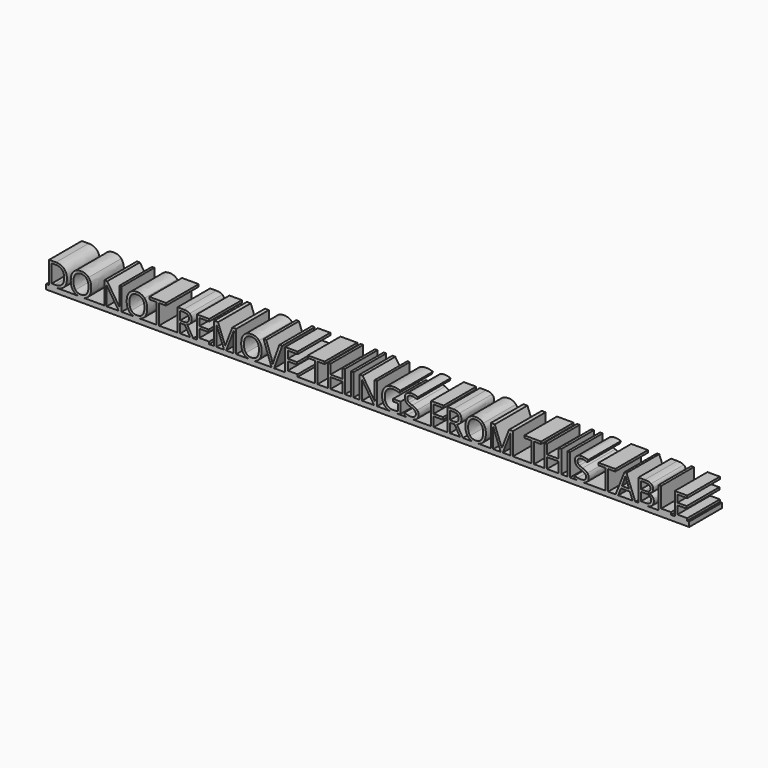
from build123d import *

# Parameters (mm, degrees)
F0_W     = 0.8051676295
F0_H     = 6.9280807897
F1_DEPTH = 12.7


with BuildPart() as f1:
    # F0 (on Front) → F1 (new body)
    with BuildSketch(Plane.XZ):
        Polygon((-65.6931871598, 7.7123762301), (-65.6931871598, 1.5), (-64.8880195302, 1.5), (-64.8880195302, 7.7123762301), (-62.6938998317, 7.7123762301), (-62.6938998317, 8.4280807897), (-67.8873068583, 8.4280807897), (-67.8873068583, 7.7123762301), align=None)
        Polygon((-53.1304492866, 8.4280807897), (-53.1304492866, 1.5), (-49.2683740466, 1.5), (-49.2683740466, 2.2202535292), (-52.325281657, 2.2202535292), (-52.325281657, 4.7691928612), (-49.4533654794, 4.7691928612), (-49.4533654794, 5.4803484511), (-52.325281657, 5.4803484511), (-52.325281657, 7.7123762301), (-49.2683740466, 7.7123762301), (-49.2683740466, 8.4280807897), align=None)
        with BuildLine():
            Line((-32.3674354425, 8.4280807897), (-29.8836980091, 1.5))
            Line((-29.8836980091, 1.5), (-29.0876283189, 1.5))
            Line((-29.0876283189, 1.5), (-26.5917602996, 8.4280807897))
            Line((-26.5917602996, 8.4280807897), (-27.4575808579, 8.4280807897))
            Line((-27.4575808579, 8.4280807897), (-29.040622299, 3.9731231709))
            add(Edge.make_bspline(
                [(-29.4864213256, 2.4431530425), (-29.3150768018, 3.2104125915), (-29.040622299, 3.9731231709)],
                knots=[0, 0, 0, 1, 1, 1], degree=2))
            add(Edge.make_bspline(
                [(-29.9216060896, 3.945829353), (-29.6471515868, 3.1725045111), (-29.4864213256, 2.4431530425)],
                knots=[0, 0, 0, 1, 1, 1], degree=2))
            Line((-29.9216060896, 3.945829353), (-31.51374547, 8.4280807897))
            Line((-31.51374547, 8.4280807897), (-32.3674354425, 8.4280807897))
        make_face()
        Polygon((-25.6395093178, 8.4280807897), (-25.6395093178, 1.5), (-21.7774340778, 1.5), (-21.7774340778, 2.2202535292), (-24.8343416883, 2.2202535292), (-24.8343416883, 4.7691928612), (-21.9624255106, 4.7691928612), (-21.9624255106, 5.4803484511), (-24.8343416883, 5.4803484511), (-24.8343416883, 7.7123762301), (-21.7774340778, 7.7123762301), (-21.7774340778, 8.4280807897), align=None)
        Polygon((-16.3944866488, 7.7123762301), (-16.3944866488, 1.5), (-15.5893190192, 1.5), (-15.5893190192, 7.7123762301), (-13.3951993207, 7.7123762301), (-13.3951993207, 8.4280807897), (-18.5886063473, 8.4280807897), (-18.5886063473, 7.7123762301), align=None)
        with Locations((-4.7893068887, 4.9640403949)):
            Rectangle(F0_W, F0_H)
        with BuildLine():
            Line((6.8619202702, 1.5), (9.1460810607, 1.5))
            add(Edge.make_bspline(
                [(10.2321490849, 1.7608075937), (9.6976927686, 1.5900171456), (9.1460810607, 1.5)],
                knots=[0, 0, 0, 0.9709878678, 0.9709878678, 0.9709878678], degree=2))
            Line((10.2321490849, 1.7608075937), (10.2321490849, 5.1300777874))
            Line((10.2321490849, 5.1300777874), (7.8772991251, 5.1300777874))
            Line((7.8772991251, 5.1300777874), (7.8772991251, 4.4098242581))
            Line((7.8772991251, 4.4098242581), (9.4254651321, 4.4098242581))
            Line((9.4254651321, 4.4098242581), (9.4254651321, 2.2778738116))
            add(Edge.make_bspline(
                [(8.0183171845, 2.1110782574), (8.7385707137, 2.1110782574), (9.4254651321, 2.2778738116)],
                knots=[0, 0, 0, 1, 1, 1], degree=2))
            add(Edge.make_bspline(
                [(6.0069144339, 2.8358807563), (6.6915343675, 2.1110782574), (8.0183171845, 2.1110782574)],
                knots=[0, 0, 0, 1, 1, 1], degree=2))
            add(Edge.make_bspline(
                [(5.3222945003, 4.9632822332), (5.3222945003, 3.5606832552), (6.0069144339, 2.8358807563)],
                knots=[0, 0, 0, 1, 1, 1], degree=2))
            add(Edge.make_bspline(
                [(6.0334500902, 7.0535337913), (5.3222945003, 6.3006793128), (5.3222945003, 4.9632822332)],
                knots=[0, 0, 0, 1, 1, 1], degree=2))
            add(Edge.make_bspline(
                [(8.0092192452, 7.8063882697), (6.7446056801, 7.8063882697), (6.0334500902, 7.0535337913)],
                knots=[0, 0, 0, 1, 1, 1], degree=2))
            add(Edge.make_bspline(
                [(9.8151601995, 7.4091115862), (8.8765561267, 7.8063882697), (8.0092192452, 7.8063882697)],
                knots=[0, 0, 0, 1, 1, 1], degree=2))
            Line((9.8151601995, 7.4091115862), (10.1275227828, 8.1202671762))
            add(Edge.make_bspline(
                [(8.0607742346, 8.526641799), (9.1707228313, 8.526641799), (10.1275227828, 8.1202671762)],
                knots=[0, 0, 0, 1, 1, 1], degree=2))
            add(Edge.make_bspline(
                [(6.1524814629, 8.0982804895), (6.9675051934, 8.526641799), (8.0607742346, 8.526641799)],
                knots=[0, 0, 0, 1, 1, 1], degree=2))
            add(Edge.make_bspline(
                [(4.9037892917, 6.8571699343), (5.3374577325, 7.66991918), (6.1524814629, 8.0982804895)],
                knots=[0, 0, 0, 1, 1, 1], degree=2))
            add(Edge.make_bspline(
                [(4.470120851, 4.9632822332), (4.470120851, 6.0444206887), (4.9037892917, 6.8571699343)],
                knots=[0, 0, 0, 1, 1, 1], degree=2))
            add(Edge.make_bspline(
                [(5.3465556718, 2.3408012252), (4.470120851, 3.2771308132), (4.470120851, 4.9632822332)],
                knots=[0, 0, 0, 1, 1, 1], degree=2))
            add(Edge.make_bspline(
                [(6.8619202702, 1.5), (5.9430463291, 1.7035469331), (5.3465556718, 2.3408012252)],
                knots=[0.319412416, 0.319412416, 0.319412416, 1, 1, 1], degree=2))
        make_face()
        with BuildLine():
            Line((12.1604551496, 1.5), (14.2327366697, 1.5))
            add(Edge.make_bspline(
                [(15.1397291847, 1.9169888854), (14.7627435489, 1.6257405542), (14.2327366697, 1.5)],
                knots=[0, 0, 0, 0.5682703015, 0.5682703015, 0.5682703015], degree=2))
            add(Edge.make_bspline(
                [(15.8031205932, 3.3438490349), (15.8031205932, 2.4295061335), (15.1397291847, 1.9169888854)],
                knots=[0, 0, 0, 1, 1, 1], degree=2))
            add(Edge.make_bspline(
                [(15.3937133239, 4.4992873281), (15.8031205932, 4.0534883016), (15.8031205932, 3.3438490349)],
                knots=[0, 0, 0, 1, 1, 1], degree=2))
            add(Edge.make_bspline(
                [(13.8940696599, 5.3332650988), (14.9843060547, 4.9450863546), (15.3937133239, 4.4992873281)],
                knots=[0, 0, 0, 1, 1, 1], degree=2))
            add(Edge.make_bspline(
                [(12.9296880923, 5.7570774386), (13.245083322, 5.5652625514), (13.8940696599, 5.3332650988)],
                knots=[0, 0, 0, 1, 1, 1], degree=2))
            add(Edge.make_bspline(
                [(12.481614581, 6.1793734552), (12.6142928627, 5.9488923259), (12.9296880923, 5.7570774386)],
                knots=[0, 0, 0, 1, 1, 1], degree=2))
            add(Edge.make_bspline(
                [(12.3489362993, 6.7692231876), (12.3489362993, 6.4098545846), (12.481614581, 6.1793734552)],
                knots=[0, 0, 0, 1, 1, 1], degree=2))
            add(Edge.make_bspline(
                [(12.7090630639, 7.531933767), (12.3489362993, 7.2574792643), (12.3489362993, 6.7692231876)],
                knots=[0, 0, 0, 1, 1, 1], degree=2))
            add(Edge.make_bspline(
                [(13.7090782271, 7.8063882697), (13.0691898285, 7.8063882697), (12.7090630639, 7.531933767)],
                knots=[0, 0, 0, 1, 1, 1], degree=2))
            add(Edge.make_bspline(
                [(15.3770337685, 7.4470196667), (14.5187948263, 7.8063882697), (13.7090782271, 7.8063882697)],
                knots=[0, 0, 0, 1, 1, 1], degree=2))
            Line((15.3770337685, 7.4470196667), (15.6287434229, 8.1475609941))
            add(Edge.make_bspline(
                [(13.728790429, 8.526641799), (14.7614065414, 8.526641799), (15.6287434229, 8.1475609941)],
                knots=[0, 0, 0, 1, 1, 1], degree=2))
            add(Edge.make_bspline(
                [(12.1358928869, 8.0527907929), (12.7371150434, 8.526641799), (13.728790429, 8.526641799)],
                knots=[0, 0, 0, 1, 1, 1], degree=2))
            add(Edge.make_bspline(
                [(11.5346707304, 6.7783211269), (11.5346707304, 7.5789397868), (12.1358928869, 8.0527907929)],
                knots=[0, 0, 0, 1, 1, 1], degree=2))
            add(Edge.make_bspline(
                [(11.9493851309, 5.5417595415), (11.5346707304, 6.0156105475), (11.5346707304, 6.7783211269)],
                knots=[0, 0, 0, 1, 1, 1], degree=2))
            add(Edge.make_bspline(
                [(13.3299974223, 4.7221868413), (12.3640995315, 5.0679085354), (11.9493851309, 5.5417595415)],
                knots=[0, 0, 0, 1, 1, 1], degree=2))
            add(Edge.make_bspline(
                [(14.3603390499, 4.2816949461), (14.0214408103, 4.4765424798), (13.3299974223, 4.7221868413)],
                knots=[0, 0, 0, 1, 1, 1], degree=2))
            add(Edge.make_bspline(
                [(14.8440461569, 3.8571244446), (14.6992372894, 4.0868474124), (14.3603390499, 4.2816949461)],
                knots=[0, 0, 0, 1, 1, 1], degree=2))
            add(Edge.make_bspline(
                [(14.9888550243, 3.2680328739), (14.9888550243, 3.6274014769), (14.8440461569, 3.8571244446)],
                knots=[0, 0, 0, 1, 1, 1], degree=2))
            add(Edge.make_bspline(
                [(14.5809640783, 2.4166173862), (14.9888550243, 2.7221565149), (14.9888550243, 3.2680328739)],
                knots=[0, 0, 0, 1, 1, 1], degree=2))
            add(Edge.make_bspline(
                [(13.3679055027, 2.1110782574), (14.1730731323, 2.1110782574), (14.5809640783, 2.4166173862)],
                knots=[0, 0, 0, 1, 1, 1], degree=2))
            add(Edge.make_bspline(
                [(12.3731974708, 2.2157045596), (12.8751004564, 2.1110782574), (13.3679055027, 2.1110782574)],
                knots=[0, 0, 0, 1, 1, 1], degree=2))
            add(Edge.make_bspline(
                [(11.4436913372, 2.4992570016), (11.8712944851, 2.3203308617), (12.3731974708, 2.2157045596)],
                knots=[0, 0, 0, 1, 1, 1], degree=2))
            Line((11.4436913372, 2.4992570016), (11.4436913372, 1.7228995133))
            add(Edge.make_bspline(
                [(12.1604551496, 1.5), (11.7440712063, 1.5788817678), (11.4436913372, 1.7228995133)],
                knots=[0.5477225575, 0.5477225575, 0.5477225575, 1, 1, 1], degree=2))
        make_face()
        Polygon((19.7425283173, 1.5), (20.5476959469, 1.5), (20.5476959469, 4.4613792476), (23.4196121245, 4.4613792476), (23.4196121245, 5.1770838072), (20.5476959469, 5.1770838072), (20.5476959469, 7.7123762301), (23.6046035573, 7.7123762301), (23.6046035573, 8.4280807897), (19.7425283173, 8.4280807897), align=None)
        Polygon((50.9166173862, 1.5), (51.7217850157, 1.5), (51.7217850157, 7.7123762301), (53.9159047142, 7.7123762301), (53.9159047142, 8.4280807897), (48.7224976876, 8.4280807897), (48.7224976876, 7.7123762301), (50.9166173862, 7.7123762301), align=None)
        with Locations((62.5217971463, 4.9640403949)):
            Rectangle(F0_W, F0_H)
        with BuildLine():
            Line((65.0907497712, 1.5), (67.1630312913, 1.5))
            add(Edge.make_bspline(
                [(68.0700238063, 1.9169888854), (67.6930381705, 1.6257405542), (67.1630312913, 1.5)],
                knots=[0, 0, 0, 0.5682703015, 0.5682703015, 0.5682703015], degree=2))
            add(Edge.make_bspline(
                [(68.7334152148, 3.3438490349), (68.7334152148, 2.4295061335), (68.0700238063, 1.9169888854)],
                knots=[0, 0, 0, 1, 1, 1], degree=2))
            add(Edge.make_bspline(
                [(68.3240079455, 4.4992873281), (68.7334152148, 4.0534883016), (68.7334152148, 3.3438490349)],
                knots=[0, 0, 0, 1, 1, 1], degree=2))
            add(Edge.make_bspline(
                [(66.8243642815, 5.3332650988), (67.9146006763, 4.9450863546), (68.3240079455, 4.4992873281)],
                knots=[0, 0, 0, 1, 1, 1], degree=2))
            add(Edge.make_bspline(
                [(65.8599827139, 5.7570774386), (66.1753779436, 5.5652625514), (66.8243642815, 5.3332650988)],
                knots=[0, 0, 0, 1, 1, 1], degree=2))
            add(Edge.make_bspline(
                [(65.4119092026, 6.1793734552), (65.5445874843, 5.9488923259), (65.8599827139, 5.7570774386)],
                knots=[0, 0, 0, 1, 1, 1], degree=2))
            add(Edge.make_bspline(
                [(65.2792309209, 6.7692231876), (65.2792309209, 6.4098545846), (65.4119092026, 6.1793734552)],
                knots=[0, 0, 0, 1, 1, 1], degree=2))
            add(Edge.make_bspline(
                [(65.6393576855, 7.531933767), (65.2792309209, 7.2574792643), (65.2792309209, 6.7692231876)],
                knots=[0, 0, 0, 1, 1, 1], degree=2))
            add(Edge.make_bspline(
                [(66.6393728487, 7.8063882697), (65.9994844501, 7.8063882697), (65.6393576855, 7.531933767)],
                knots=[0, 0, 0, 1, 1, 1], degree=2))
            add(Edge.make_bspline(
                [(68.3073283901, 7.4470196667), (67.4490894479, 7.8063882697), (66.6393728487, 7.8063882697)],
                knots=[0, 0, 0, 1, 1, 1], degree=2))
            Line((68.3073283901, 7.4470196667), (68.5590380445, 8.1475609941))
            add(Edge.make_bspline(
                [(66.6590850506, 8.526641799), (67.691701163, 8.526641799), (68.5590380445, 8.1475609941)],
                knots=[0, 0, 0, 1, 1, 1], degree=2))
            add(Edge.make_bspline(
                [(65.0661875085, 8.0527907929), (65.667409665, 8.526641799), (66.6590850506, 8.526641799)],
                knots=[0, 0, 0, 1, 1, 1], degree=2))
            add(Edge.make_bspline(
                [(64.464965352, 6.7783211269), (64.464965352, 7.5789397868), (65.0661875085, 8.0527907929)],
                knots=[0, 0, 0, 1, 1, 1], degree=2))
            add(Edge.make_bspline(
                [(64.8796797525, 5.5417595415), (64.464965352, 6.0156105475), (64.464965352, 6.7783211269)],
                knots=[0, 0, 0, 1, 1, 1], degree=2))
            add(Edge.make_bspline(
                [(66.2602920439, 4.7221868413), (65.2943941531, 5.0679085354), (64.8796797525, 5.5417595415)],
                knots=[0, 0, 0, 1, 1, 1], degree=2))
            add(Edge.make_bspline(
                [(67.2906336715, 4.2816949461), (66.9517354319, 4.4765424798), (66.2602920439, 4.7221868413)],
                knots=[0, 0, 0, 1, 1, 1], degree=2))
            add(Edge.make_bspline(
                [(67.7743407785, 3.8571244446), (67.629531911, 4.0868474124), (67.2906336715, 4.2816949461)],
                knots=[0, 0, 0, 1, 1, 1], degree=2))
            add(Edge.make_bspline(
                [(67.9191496459, 3.2680328739), (67.9191496459, 3.6274014769), (67.7743407785, 3.8571244446)],
                knots=[0, 0, 0, 1, 1, 1], degree=2))
            add(Edge.make_bspline(
                [(67.5112586999, 2.4166173862), (67.9191496459, 2.7221565149), (67.9191496459, 3.2680328739)],
                knots=[0, 0, 0, 1, 1, 1], degree=2))
            add(Edge.make_bspline(
                [(66.2982001243, 2.1110782574), (67.1033677539, 2.1110782574), (67.5112586999, 2.4166173862)],
                knots=[0, 0, 0, 1, 1, 1], degree=2))
            add(Edge.make_bspline(
                [(65.3034920924, 2.2157045596), (65.805395078, 2.1110782574), (66.2982001243, 2.1110782574)],
                knots=[0, 0, 0, 1, 1, 1], degree=2))
            add(Edge.make_bspline(
                [(64.3739859588, 2.4992570016), (64.8015891067, 2.3203308617), (65.3034920924, 2.2157045596)],
                knots=[0, 0, 0, 1, 1, 1], degree=2))
            Line((64.3739859588, 2.4992570016), (64.3739859588, 1.7228995133))
            add(Edge.make_bspline(
                [(65.0907497712, 1.5), (64.6743658279, 1.5788817678), (64.3739859588, 1.7228995133)],
                knots=[0.5477225575, 0.5477225575, 0.5477225575, 1, 1, 1], degree=2))
        make_face()
        Polygon((73.999605756, 1.5), (74.8047733855, 1.5), (74.8047733855, 7.7123762301), (76.998893084, 7.7123762301), (76.998893084, 8.4280807897), (71.8054860574, 8.4280807897), (71.8054860574, 7.7123762301), (73.999605756, 7.7123762301), align=None)
        Polygon((90.4714248889, 1.5), (94.3335001289, 1.5), (94.3335001289, 2.2293514686), (91.2765925185, 2.2293514686), (91.2765925185, 8.4280807897), (90.4714248889, 8.4280807897), align=None)
        Polygon((95.508650624, 1.5), (99.3707258639, 1.5), (99.3707258639, 2.2202535292), (96.3138182535, 2.2202535292), (96.3138182535, 4.7691928612), (99.1857344312, 4.7691928612), (99.1857344312, 5.4803484511), (96.3138182535, 5.4803484511), (96.3138182535, 7.7123762301), (99.3707258639, 7.7123762301), (99.3707258639, 8.4280807897), (95.508650624, 8.4280807897), align=None)
        with BuildLine():
            Line((-99.0477490182, 8.4280807897), (-99.0477490182, 1.5))
            Line((-99.0477490182, 1.5), (-97.1280838223, 1.5))
            add(Edge.make_bspline(
                [(-94.4487406936, 2.4075194468), (-95.3797631503, 1.5), (-97.1280838223, 1.5)],
                knots=[0, 0, 0, 1, 1, 1], degree=2))
            add(Edge.make_bspline(
                [(-93.5177182368, 5.0300004549), (-93.5177182368, 3.3150388937), (-94.4487406936, 2.4075194468)],
                knots=[0, 0, 0, 1, 1, 1], degree=2))
            add(Edge.make_bspline(
                [(-94.4131070979, 7.5326919286), (-93.5177182368, 6.6373030675), (-93.5177182368, 5.0300004549)],
                knots=[0, 0, 0, 1, 1, 1], degree=2))
            add(Edge.make_bspline(
                [(-96.9248965109, 8.4280807897), (-95.308495959, 8.4280807897), (-94.4131070979, 7.5326919286)],
                knots=[0, 0, 0, 1, 1, 1], degree=2))
            Line((-96.9248965109, 8.4280807897), (-99.0477490182, 8.4280807897))
        make_face()
        with BuildLine():
            add(Edge.make_bspline(
                [(-94.3698918862, 5.0011903137), (-94.3698918862, 6.3567832719), (-95.0499628501, 7.0436776903)],
                knots=[0, 0, 0, 1, 1, 1], degree=2))
            add(Edge.make_bspline(
                [(-95.0954525467, 2.9048734628), (-94.3698918862, 3.6137545679), (-94.3698918862, 5.0011903137)],
                knots=[0, 0, 0, 1, 1, 1], degree=2))
            add(Edge.make_bspline(
                [(-97.2615202657, 2.1959923577), (-95.8210132072, 2.1959923577), (-95.0954525467, 2.9048734628)],
                knots=[0, 0, 0, 1, 1, 1], degree=2))
            Line((-97.2615202657, 2.1959923577), (-98.2425813886, 2.1959923577))
            Line((-98.2425813886, 2.1959923577), (-98.2425813886, 7.7305721088))
            Line((-98.2425813886, 7.7305721088), (-97.0719798632, 7.7305721088))
            add(Edge.make_bspline(
                [(-95.0499628501, 7.0436776903), (-95.730033814, 7.7305721088), (-97.0719798632, 7.7305721088)],
                knots=[0, 0, 0, 1, 1, 1], degree=2))
        make_face(mode=Mode.SUBTRACT)
        with BuildLine():
            add(Edge.make_bspline(
                [(-90.0447195094, 1.5), (-90.9342032634, 1.7035469331), (-91.5002501933, 2.3408012252)],
                knots=[0.319412416, 0.319412416, 0.319412416, 1, 1, 1], degree=2))
            Line((-90.0447195094, 1.5), (-88.2565695122, 1.5))
            add(Edge.make_bspline(
                [(-86.8004063746, 2.3574807806), (-87.3755239349, 1.7061990029), (-88.2565695122, 1.5)],
                knots=[0, 0, 0, 0.6833950988, 0.6833950988, 0.6833950988], degree=2))
            add(Edge.make_bspline(
                [(-85.9588469878, 4.9738964958), (-85.9588469878, 3.310489924), (-86.8004063746, 2.3574807806)],
                knots=[0, 0, 0, 1, 1, 1], degree=2))
            add(Edge.make_bspline(
                [(-86.7973737282, 7.5895540493), (-85.9588469878, 6.6418520372), (-85.9588469878, 4.9738964958)],
                knots=[0, 0, 0, 1, 1, 1], degree=2))
            add(Edge.make_bspline(
                [(-89.1294788397, 8.5372560615), (-87.6359004685, 8.5372560615), (-86.7973737282, 7.5895540493)],
                knots=[0, 0, 0, 1, 1, 1], degree=2))
            add(Edge.make_bspline(
                [(-91.4979757085, 7.6062336048), (-90.6639979378, 8.5372560615), (-89.1294788397, 8.5372560615)],
                knots=[0, 0, 0, 1, 1, 1], degree=2))
            add(Edge.make_bspline(
                [(-92.3319534792, 4.9829944351), (-92.3319534792, 6.675211148), (-91.4979757085, 7.6062336048)],
                knots=[0, 0, 0, 1, 1, 1], degree=2))
            add(Edge.make_bspline(
                [(-91.5002501933, 2.3408012252), (-92.3319534792, 3.2771308132), (-92.3319534792, 4.9829944351)],
                knots=[0, 0, 0, 1, 1, 1], degree=2))
        make_face()
        with BuildLine():
            add(Edge.make_bspline(
                [(-91.4797798299, 4.9738964958), (-91.4797798299, 3.5667485481), (-90.8800739966, 2.8389134028)],
                knots=[0, 0, 0, 1, 1, 1], degree=2))
            add(Edge.make_bspline(
                [(-90.8800739966, 7.0891673869), (-91.4797798299, 6.3613322416), (-91.4797798299, 4.9738964958)],
                knots=[0, 0, 0, 1, 1, 1], degree=2))
            add(Edge.make_bspline(
                [(-89.1294788397, 7.8170025323), (-90.2803681633, 7.8170025323), (-90.8800739966, 7.0891673869)],
                knots=[0, 0, 0, 1, 1, 1], degree=2))
            add(Edge.make_bspline(
                [(-87.3978377231, 7.0944745182), (-87.9831384858, 7.8170025323), (-89.1294788397, 7.8170025323)],
                knots=[0, 0, 0, 1, 1, 1], degree=2))
            add(Edge.make_bspline(
                [(-86.8125369604, 4.9738964958), (-86.8125369604, 6.3719465041), (-87.3978377231, 7.0944745182)],
                knots=[0, 0, 0, 1, 1, 1], degree=2))
            add(Edge.make_bspline(
                [(-87.4001122079, 2.8358807563), (-86.8125369604, 3.5606832552), (-86.8125369604, 4.9738964958)],
                knots=[0, 0, 0, 1, 1, 1], degree=2))
            add(Edge.make_bspline(
                [(-89.138576779, 2.1110782574), (-87.9876874555, 2.1110782574), (-87.4001122079, 2.8358807563)],
                knots=[0, 0, 0, 1, 1, 1], degree=2))
            add(Edge.make_bspline(
                [(-90.8800739966, 2.8389134028), (-90.2803681633, 2.1110782574), (-89.138576779, 2.1110782574)],
                knots=[0, 0, 0, 1, 1, 1], degree=2))
        make_face(mode=Mode.SUBTRACT)
        with BuildLine():
            Line((-88.2565695122, 1.5), (-90.0447195094, 1.5))
            add(Edge.make_bspline(
                [(-89.138576779, 1.4044716372), (-89.6272682342, 1.4044716372), (-90.0447195094, 1.5)],
                knots=[0, 0, 0, 0.319412416, 0.319412416, 0.319412416], degree=2))
            add(Edge.make_bspline(
                [(-88.2565695122, 1.5), (-88.6647423956, 1.4044716372), (-89.138576779, 1.4044716372)],
                knots=[0.6833950988, 0.6833950988, 0.6833950988, 1, 1, 1], degree=2))
        make_face()
        with BuildLine():
            Line((-81.8935844365, 8.4280807897), (-81.8935844365, 1.5))
            Line((-81.8935844365, 1.5), (-81.1490697357, 1.5))
            Line((-81.1490697357, 1.5), (-81.1490697357, 5.4378914009))
            add(Edge.make_bspline(
                [(-81.2248858967, 7.3135832234), (-81.1490697357, 6.2900650503), (-81.1490697357, 5.4378914009)],
                knots=[0, 0, 0, 1, 1, 1], degree=2))
            Line((-81.2248858967, 7.3135832234), (-81.1869778162, 7.3135832234))
            Line((-81.1869778162, 7.3135832234), (-77.4007187372, 1.5))
            Line((-77.4007187372, 1.5), (-76.4818268662, 1.5))
            Line((-76.4818268662, 1.5), (-76.4818268662, 8.4280807897))
            Line((-76.4818268662, 8.4280807897), (-77.2354395063, 8.4280807897))
            Line((-77.2354395063, 8.4280807897), (-77.2354395063, 4.4522813083))
            add(Edge.make_bspline(
                [(-77.2111783348, 3.4590895995), (-77.2445374456, 4.1535656341), (-77.2354395063, 4.4522813083)],
                knots=[0, 0, 0, 1, 1, 1], degree=2))
            add(Edge.make_bspline(
                [(-77.1687212846, 2.6372424146), (-77.1778192239, 2.764613565), (-77.2111783348, 3.4590895995)],
                knots=[0, 0, 0, 1, 1, 1], degree=2))
            Line((-77.1687212846, 2.6372424146), (-77.2066293651, 2.6372424146))
            Line((-77.2066293651, 2.6372424146), (-80.9837905048, 8.4280807897))
            Line((-80.9837905048, 8.4280807897), (-81.8935844365, 8.4280807897))
        make_face()
        with BuildLine():
            add(Edge.make_bspline(
                [(-72.6494595358, 1.5), (-73.5389432898, 1.7035469331), (-74.1049902197, 2.3408012252)],
                knots=[0.319412416, 0.319412416, 0.319412416, 1, 1, 1], degree=2))
            Line((-72.6494595358, 1.5), (-70.8613095386, 1.5))
            add(Edge.make_bspline(
                [(-69.405146401, 2.3574807806), (-69.9802639613, 1.7061990029), (-70.8613095386, 1.5)],
                knots=[0, 0, 0, 0.6833950988, 0.6833950988, 0.6833950988], degree=2))
            add(Edge.make_bspline(
                [(-68.5635870142, 4.9738964958), (-68.5635870142, 3.310489924), (-69.405146401, 2.3574807806)],
                knots=[0, 0, 0, 1, 1, 1], degree=2))
            add(Edge.make_bspline(
                [(-69.4021137546, 7.5895540493), (-68.5635870142, 6.6418520372), (-68.5635870142, 4.9738964958)],
                knots=[0, 0, 0, 1, 1, 1], degree=2))
            add(Edge.make_bspline(
                [(-71.7342188661, 8.5372560615), (-70.2406404949, 8.5372560615), (-69.4021137546, 7.5895540493)],
                knots=[0, 0, 0, 1, 1, 1], degree=2))
            add(Edge.make_bspline(
                [(-74.1027157349, 7.6062336048), (-73.2687379642, 8.5372560615), (-71.7342188661, 8.5372560615)],
                knots=[0, 0, 0, 1, 1, 1], degree=2))
            add(Edge.make_bspline(
                [(-74.9366935056, 4.9829944351), (-74.9366935056, 6.675211148), (-74.1027157349, 7.6062336048)],
                knots=[0, 0, 0, 1, 1, 1], degree=2))
            add(Edge.make_bspline(
                [(-74.1049902197, 2.3408012252), (-74.9366935056, 3.2771308132), (-74.9366935056, 4.9829944351)],
                knots=[0, 0, 0, 1, 1, 1], degree=2))
        make_face()
        with BuildLine():
            add(Edge.make_bspline(
                [(-74.0845198563, 4.9738964958), (-74.0845198563, 3.5667485481), (-73.484814023, 2.8389134028)],
                knots=[0, 0, 0, 1, 1, 1], degree=2))
            add(Edge.make_bspline(
                [(-73.484814023, 7.0891673869), (-74.0845198563, 6.3613322416), (-74.0845198563, 4.9738964958)],
                knots=[0, 0, 0, 1, 1, 1], degree=2))
            add(Edge.make_bspline(
                [(-71.7342188661, 7.8170025323), (-72.8851081897, 7.8170025323), (-73.484814023, 7.0891673869)],
                knots=[0, 0, 0, 1, 1, 1], degree=2))
            add(Edge.make_bspline(
                [(-70.0025777495, 7.0944745182), (-70.5878785122, 7.8170025323), (-71.7342188661, 7.8170025323)],
                knots=[0, 0, 0, 1, 1, 1], degree=2))
            add(Edge.make_bspline(
                [(-69.4172769868, 4.9738964958), (-69.4172769868, 6.3719465041), (-70.0025777495, 7.0944745182)],
                knots=[0, 0, 0, 1, 1, 1], degree=2))
            add(Edge.make_bspline(
                [(-70.0048522343, 2.8358807563), (-69.4172769868, 3.5606832552), (-69.4172769868, 4.9738964958)],
                knots=[0, 0, 0, 1, 1, 1], degree=2))
            add(Edge.make_bspline(
                [(-71.7433168054, 2.1110782574), (-70.5924274818, 2.1110782574), (-70.0048522343, 2.8358807563)],
                knots=[0, 0, 0, 1, 1, 1], degree=2))
            add(Edge.make_bspline(
                [(-73.484814023, 2.8389134028), (-72.8851081897, 2.1110782574), (-71.7433168054, 2.1110782574)],
                knots=[0, 0, 0, 1, 1, 1], degree=2))
        make_face(mode=Mode.SUBTRACT)
        with BuildLine():
            Line((-70.8613095386, 1.5), (-72.6494595358, 1.5))
            add(Edge.make_bspline(
                [(-71.7433168054, 1.4044716372), (-72.2320082605, 1.4044716372), (-72.6494595358, 1.5)],
                knots=[0, 0, 0, 0.319412416, 0.319412416, 0.319412416], degree=2))
            add(Edge.make_bspline(
                [(-70.8613095386, 1.5), (-71.269482422, 1.4044716372), (-71.7433168054, 1.4044716372)],
                knots=[0.6833950988, 0.6833950988, 0.6833950988, 1, 1, 1], degree=2))
        make_face()
        with BuildLine():
            add(Edge.make_bspline(
                [(-37.0446740197, 1.5), (-37.9341577737, 1.7035469331), (-38.5002047036, 2.3408012252)],
                knots=[0.319412416, 0.319412416, 0.319412416, 1, 1, 1], degree=2))
            Line((-37.0446740197, 1.5), (-35.2565240225, 1.5))
            add(Edge.make_bspline(
                [(-33.8003608849, 2.3574807806), (-34.3754784452, 1.7061990029), (-35.2565240225, 1.5)],
                knots=[0, 0, 0, 0.6833950988, 0.6833950988, 0.6833950988], degree=2))
            add(Edge.make_bspline(
                [(-32.9588014981, 4.9738964958), (-32.9588014981, 3.310489924), (-33.8003608849, 2.3574807806)],
                knots=[0, 0, 0, 1, 1, 1], degree=2))
            add(Edge.make_bspline(
                [(-33.7973282385, 7.5895540493), (-32.9588014981, 6.6418520372), (-32.9588014981, 4.9738964958)],
                knots=[0, 0, 0, 1, 1, 1], degree=2))
            add(Edge.make_bspline(
                [(-36.12943335, 8.5372560615), (-34.6358549788, 8.5372560615), (-33.7973282385, 7.5895540493)],
                knots=[0, 0, 0, 1, 1, 1], degree=2))
            add(Edge.make_bspline(
                [(-38.4979302188, 7.6062336048), (-37.6639524481, 8.5372560615), (-36.12943335, 8.5372560615)],
                knots=[0, 0, 0, 1, 1, 1], degree=2))
            add(Edge.make_bspline(
                [(-39.3319079895, 4.9829944351), (-39.3319079895, 6.675211148), (-38.4979302188, 7.6062336048)],
                knots=[0, 0, 0, 1, 1, 1], degree=2))
            add(Edge.make_bspline(
                [(-38.5002047036, 2.3408012252), (-39.3319079895, 3.2771308132), (-39.3319079895, 4.9829944351)],
                knots=[0, 0, 0, 1, 1, 1], degree=2))
        make_face()
        with BuildLine():
            add(Edge.make_bspline(
                [(-38.4797343402, 4.9738964958), (-38.4797343402, 3.5667485481), (-37.8800285069, 2.8389134028)],
                knots=[0, 0, 0, 1, 1, 1], degree=2))
            add(Edge.make_bspline(
                [(-37.8800285069, 7.0891673869), (-38.4797343402, 6.3613322416), (-38.4797343402, 4.9738964958)],
                knots=[0, 0, 0, 1, 1, 1], degree=2))
            add(Edge.make_bspline(
                [(-36.12943335, 7.8170025323), (-37.2803226736, 7.8170025323), (-37.8800285069, 7.0891673869)],
                knots=[0, 0, 0, 1, 1, 1], degree=2))
            add(Edge.make_bspline(
                [(-34.3977922334, 7.0944745182), (-34.9830929961, 7.8170025323), (-36.12943335, 7.8170025323)],
                knots=[0, 0, 0, 1, 1, 1], degree=2))
            add(Edge.make_bspline(
                [(-33.8124914707, 4.9738964958), (-33.8124914707, 6.3719465041), (-34.3977922334, 7.0944745182)],
                knots=[0, 0, 0, 1, 1, 1], degree=2))
            add(Edge.make_bspline(
                [(-34.4000667182, 2.8358807563), (-33.8124914707, 3.5606832552), (-33.8124914707, 4.9738964958)],
                knots=[0, 0, 0, 1, 1, 1], degree=2))
            add(Edge.make_bspline(
                [(-36.1385312893, 2.1110782574), (-34.9876419658, 2.1110782574), (-34.4000667182, 2.8358807563)],
                knots=[0, 0, 0, 1, 1, 1], degree=2))
            add(Edge.make_bspline(
                [(-37.8800285069, 2.8389134028), (-37.2803226736, 2.1110782574), (-36.1385312893, 2.1110782574)],
                knots=[0, 0, 0, 1, 1, 1], degree=2))
        make_face(mode=Mode.SUBTRACT)
        with BuildLine():
            Line((-35.2565240225, 1.5), (-37.0446740197, 1.5))
            add(Edge.make_bspline(
                [(-36.1385312893, 1.4044716372), (-36.6272227445, 1.4044716372), (-37.0446740197, 1.5)],
                knots=[0, 0, 0, 0.319412416, 0.319412416, 0.319412416], degree=2))
            add(Edge.make_bspline(
                [(-35.2565240225, 1.5), (-35.6646969059, 1.4044716372), (-36.1385312893, 1.4044716372)],
                knots=[0.6833950988, 0.6833950988, 0.6833950988, 1, 1, 1], degree=2))
        make_face()
        Polygon((-12.3519689457, 8.4280807897), (-12.3519689457, 1.5), (-11.5468013162, 1.5), (-11.5468013162, 4.7600949218), (-7.8970113269, 4.7600949218), (-7.8970113269, 1.5), (-7.0918436974, 1.5), (-7.0918436974, 8.4280807897), (-7.8970113269, 8.4280807897), (-7.8970113269, 5.4803484511), (-11.5468013162, 5.4803484511), (-11.5468013162, 8.4280807897), align=None)
        with BuildLine():
            Line((2.0060956193, 1.5), (2.9249874903, 1.5))
            Line((2.9249874903, 1.5), (2.9249874903, 8.4280807897))
            Line((2.9249874903, 8.4280807897), (2.1713748503, 8.4280807897))
            Line((2.1713748503, 8.4280807897), (2.1713748503, 4.4522813083))
            add(Edge.make_bspline(
                [(2.1956360218, 3.4590895995), (2.1622769109, 4.1535656341), (2.1713748503, 4.4522813083)],
                knots=[0, 0, 0, 1, 1, 1], degree=2))
            add(Edge.make_bspline(
                [(2.2380930719, 2.6372424146), (2.2289951326, 2.764613565), (2.1956360218, 3.4590895995)],
                knots=[0, 0, 0, 1, 1, 1], degree=2))
            Line((2.2380930719, 2.6372424146), (2.2001849914, 2.6372424146))
            Line((2.2001849914, 2.6372424146), (-1.5769761482, 8.4280807897))
            Line((-1.5769761482, 8.4280807897), (-2.4867700799, 8.4280807897))
            Line((-2.4867700799, 8.4280807897), (-2.4867700799, 1.5))
            Line((-2.4867700799, 1.5), (-1.7422553792, 1.5))
            Line((-1.7422553792, 1.5), (-1.7422553792, 5.4378914009))
            add(Edge.make_bspline(
                [(-1.8180715401, 7.3135832234), (-1.7422553792, 6.2900650503), (-1.7422553792, 5.4378914009)],
                knots=[0, 0, 0, 1, 1, 1], degree=2))
            Line((-1.8180715401, 7.3135832234), (-1.7801634596, 7.3135832234))
            Line((-1.7801634596, 7.3135832234), (2.0060956193, 1.5))
        make_face()
        with BuildLine():
            add(Edge.make_bspline(
                [(9.1460810607, 1.5), (9.1295994626, 1.497310379), (9.1131025489, 1.4946928687)],
                knots=[0.9709878678, 0.9709878678, 0.9709878678, 1, 1, 1], degree=2))
            Line((9.1460810607, 1.5), (6.8619202702, 1.5))
            add(Edge.make_bspline(
                [(7.7954176712, 1.4044716372), (7.2931649071, 1.4044716372), (6.8619202702, 1.5)],
                knots=[0, 0, 0, 0.319412416, 0.319412416, 0.319412416], degree=2))
            add(Edge.make_bspline(
                [(9.1131025489, 1.4946928687), (8.5444813416, 1.4044716372), (7.7954176712, 1.4044716372)],
                knots=[0, 0, 0, 1, 1, 1], degree=2))
        make_face()
        with BuildLine():
            add(Edge.make_bspline(
                [(14.2327366697, 1.5), (13.8300766863, 1.4044716372), (13.3390953616, 1.4044716372)],
                knots=[0.5682703015, 0.5682703015, 0.5682703015, 1, 1, 1], degree=2))
            Line((14.2327366697, 1.5), (12.1604551496, 1.5))
            add(Edge.make_bspline(
                [(13.3390953616, 1.4044716372), (12.664709523, 1.4044716372), (12.1604551496, 1.5)],
                knots=[0, 0, 0, 0.5477225575, 0.5477225575, 0.5477225575], degree=2))
        make_face()
        with BuildLine():
            Line((32.6773839342, 1.5), (34.4655339314, 1.5))
            add(Edge.make_bspline(
                [(35.9216970689, 2.3574807806), (35.3465795087, 1.7061990029), (34.4655339314, 1.5)],
                knots=[0, 0, 0, 0.6833950988, 0.6833950988, 0.6833950988], degree=2))
            add(Edge.make_bspline(
                [(36.7632564557, 4.9738964958), (36.7632564557, 3.310489924), (35.9216970689, 2.3574807806)],
                knots=[0, 0, 0, 1, 1, 1], degree=2))
            add(Edge.make_bspline(
                [(35.9247297154, 7.5895540493), (36.7632564557, 6.6418520372), (36.7632564557, 4.9738964958)],
                knots=[0, 0, 0, 1, 1, 1], degree=2))
            add(Edge.make_bspline(
                [(33.5926246039, 8.5372560615), (35.086202975, 8.5372560615), (35.9247297154, 7.5895540493)],
                knots=[0, 0, 0, 1, 1, 1], degree=2))
            add(Edge.make_bspline(
                [(31.2241277351, 7.6062336048), (32.0581055058, 8.5372560615), (33.5926246039, 8.5372560615)],
                knots=[0, 0, 0, 1, 1, 1], degree=2))
            add(Edge.make_bspline(
                [(30.3901499644, 4.9829944351), (30.3901499644, 6.675211148), (31.2241277351, 7.6062336048)],
                knots=[0, 0, 0, 1, 1, 1], degree=2))
            add(Edge.make_bspline(
                [(31.2218532502, 2.3408012252), (30.3901499644, 3.2771308132), (30.3901499644, 4.9829944351)],
                knots=[0, 0, 0, 1, 1, 1], degree=2))
            add(Edge.make_bspline(
                [(32.6773839342, 1.5), (31.7879001802, 1.7035469331), (31.2218532502, 2.3408012252)],
                knots=[0.319412416, 0.319412416, 0.319412416, 1, 1, 1], degree=2))
        make_face()
        with BuildLine():
            add(Edge.make_bspline(
                [(31.2423236137, 4.9738964958), (31.2423236137, 3.5667485481), (31.842029447, 2.8389134028)],
                knots=[0, 0, 0, 1, 1, 1], degree=2))
            add(Edge.make_bspline(
                [(31.842029447, 7.0891673869), (31.2423236137, 6.3613322416), (31.2423236137, 4.9738964958)],
                knots=[0, 0, 0, 1, 1, 1], degree=2))
            add(Edge.make_bspline(
                [(33.5926246039, 7.8170025323), (32.4417352803, 7.8170025323), (31.842029447, 7.0891673869)],
                knots=[0, 0, 0, 1, 1, 1], degree=2))
            add(Edge.make_bspline(
                [(35.3242657205, 7.0944745182), (34.7389649578, 7.8170025323), (33.5926246039, 7.8170025323)],
                knots=[0, 0, 0, 1, 1, 1], degree=2))
            add(Edge.make_bspline(
                [(35.9095664832, 4.9738964958), (35.9095664832, 6.3719465041), (35.3242657205, 7.0944745182)],
                knots=[0, 0, 0, 1, 1, 1], degree=2))
            add(Edge.make_bspline(
                [(35.3219912357, 2.8358807563), (35.9095664832, 3.5606832552), (35.9095664832, 4.9738964958)],
                knots=[0, 0, 0, 1, 1, 1], degree=2))
            add(Edge.make_bspline(
                [(33.5835266645, 2.1110782574), (34.7344159881, 2.1110782574), (35.3219912357, 2.8358807563)],
                knots=[0, 0, 0, 1, 1, 1], degree=2))
            add(Edge.make_bspline(
                [(31.842029447, 2.8389134028), (32.4417352803, 2.1110782574), (33.5835266645, 2.1110782574)],
                knots=[0, 0, 0, 1, 1, 1], degree=2))
        make_face(mode=Mode.SUBTRACT)
        with BuildLine():
            add(Edge.make_bspline(
                [(34.4655339314, 1.5), (34.057361048, 1.4044716372), (33.5835266645, 1.4044716372)],
                knots=[0.6833950988, 0.6833950988, 0.6833950988, 1, 1, 1], degree=2))
            Line((34.4655339314, 1.5), (32.6773839342, 1.5))
            add(Edge.make_bspline(
                [(33.5835266645, 1.4044716372), (33.0948352094, 1.4044716372), (32.6773839342, 1.5)],
                knots=[0, 0, 0, 0.319412416, 0.319412416, 0.319412416], degree=2))
        make_face()
        Polygon((59.414092708, 1.5), (60.2192603375, 1.5), (60.2192603375, 8.4280807897), (59.414092708, 8.4280807897), (59.414092708, 5.4803484511), (55.7643027188, 5.4803484511), (55.7643027188, 8.4280807897), (54.9591350892, 8.4280807897), (54.9591350892, 1.5), (55.7643027188, 1.5), (55.7643027188, 4.7600949218), (59.414092708, 4.7600949218), align=None)
        with BuildLine():
            add(Edge.make_bspline(
                [(67.1630312913, 1.5), (66.7603713079, 1.4044716372), (66.2693899832, 1.4044716372)],
                knots=[0.5682703015, 0.5682703015, 0.5682703015, 1, 1, 1], degree=2))
            Line((67.1630312913, 1.5), (65.0907497712, 1.5))
            add(Edge.make_bspline(
                [(66.2693899832, 1.4044716372), (65.5950041446, 1.4044716372), (65.0907497712, 1.5)],
                knots=[0, 0, 0, 0.5477225575, 0.5477225575, 0.5477225575], degree=2))
        make_face()
        with BuildLine():
            Line((-59.1290239427, 8.4280807897), (-59.1290239427, 1.5))
            Line((-59.1290239427, 1.5), (-58.3238563132, 1.5))
            Line((-58.3238563132, 1.5), (-58.3238563132, 4.381014117))
            Line((-58.3238563132, 4.381014117), (-56.8772839618, 4.381014117))
            Line((-56.8772839618, 4.381014117), (-55.2002304811, 1.5))
            Line((-55.2002304811, 1.5), (-54.2479794993, 1.5))
            Line((-54.2479794993, 1.5), (-56.1297366147, 4.6130115695))
            add(Edge.make_bspline(
                [(-54.736235576, 6.4705075134), (-54.736235576, 5.0967186766), (-56.1297366147, 4.6130115695)],
                knots=[0, 0, 0, 1, 1, 1], degree=2))
            add(Edge.make_bspline(
                [(-55.3450393486, 7.939824713), (-54.736235576, 7.4515686364), (-54.736235576, 6.4705075134)],
                knots=[0, 0, 0, 1, 1, 1], degree=2))
            add(Edge.make_bspline(
                [(-57.2290709488, 8.4280807897), (-55.9538431212, 8.4280807897), (-55.3450393486, 7.939824713)],
                knots=[0, 0, 0, 1, 1, 1], degree=2))
            Line((-57.2290709488, 8.4280807897), (-59.1290239427, 8.4280807897))
        make_face()
        with BuildLine():
            Line((-57.2184566862, 5.072457505), (-58.3238563132, 5.072457505))
            Line((-58.3238563132, 5.072457505), (-58.3238563132, 7.7214741694))
            Line((-58.3238563132, 7.7214741694), (-57.2760769686, 7.7214741694))
            add(Edge.make_bspline(
                [(-55.9750716463, 7.4182095255), (-56.3799299459, 7.7214741694), (-57.2760769686, 7.7214741694)],
                knots=[0, 0, 0, 1, 1, 1], degree=2))
            add(Edge.make_bspline(
                [(-55.5702133467, 6.4280504632), (-55.5702133467, 7.1149448817), (-55.9750716463, 7.4182095255)],
                knots=[0, 0, 0, 1, 1, 1], degree=2))
            add(Edge.make_bspline(
                [(-55.9682481918, 5.4113557446), (-55.5702133467, 5.7502539841), (-55.5702133467, 6.4280504632)],
                knots=[0, 0, 0, 1, 1, 1], degree=2))
            add(Edge.make_bspline(
                [(-57.2184566862, 5.072457505), (-56.3662830369, 5.072457505), (-55.9682481918, 5.4113557446)],
                knots=[0, 0, 0, 1, 1, 1], degree=2))
        make_face(mode=Mode.SUBTRACT)
        with BuildLine():
            Line((-47.7338549485, 8.4280807897), (-47.7338549485, 1.5))
            Line((-47.7338549485, 1.5), (-46.9893402478, 1.5))
            Line((-46.9893402478, 1.5), (-46.9893402478, 5.9064352757))
            add(Edge.make_bspline(
                [(-47.0560584694, 7.6411090388), (-46.9893402478, 6.9117575702), (-46.9893402478, 5.9064352757)],
                knots=[0, 0, 0, 1, 1, 1], degree=2))
            Line((-47.0560584694, 7.6411090388), (-47.0181503889, 7.6411090388))
            Line((-47.0181503889, 7.6411090388), (-44.6678493988, 1.5))
            Line((-44.6678493988, 1.5), (-44.0188630609, 1.5))
            Line((-44.0188630609, 1.5), (-41.6488498688, 7.6320110995))
            Line((-41.6488498688, 7.6320110995), (-41.6109417884, 7.6320110995))
            add(Edge.make_bspline(
                [(-41.67766001, 5.9640555581), (-41.67766001, 6.7313151071), (-41.6109417884, 7.6320110995)],
                knots=[0, 0, 0, 1, 1, 1], degree=2))
            Line((-41.67766001, 5.9640555581), (-41.67766001, 1.5))
            Line((-41.67766001, 1.5), (-40.8724923805, 1.5))
            Line((-40.8724923805, 1.5), (-40.8724923805, 8.4280807897))
            Line((-40.8724923805, 8.4280807897), (-42.0764530167, 8.4280807897))
            Line((-42.0764530167, 8.4280807897), (-44.2887685939, 2.7130585756))
            Line((-44.2887685939, 2.7130585756), (-44.3266766744, 2.7130585756))
            Line((-44.3266766744, 2.7130585756), (-46.520796373, 8.4280807897))
            Line((-46.520796373, 8.4280807897), (-47.7338549485, 8.4280807897))
        make_face()
        with BuildLine():
            Line((28.6797373728, 1.5), (29.6319883546, 1.5))
            Line((29.6319883546, 1.5), (27.7502312393, 4.6130115695))
            add(Edge.make_bspline(
                [(29.143732278, 6.4705075134), (29.143732278, 5.0967186766), (27.7502312393, 4.6130115695)],
                knots=[0, 0, 0, 1, 1, 1], degree=2))
            add(Edge.make_bspline(
                [(28.5349285054, 7.939824713), (29.143732278, 7.4515686364), (29.143732278, 6.4705075134)],
                knots=[0, 0, 0, 1, 1, 1], degree=2))
            add(Edge.make_bspline(
                [(26.6508969052, 8.4280807897), (27.9261247327, 8.4280807897), (28.5349285054, 7.939824713)],
                knots=[0, 0, 0, 1, 1, 1], degree=2))
            Line((26.6508969052, 8.4280807897), (24.7509439112, 8.4280807897))
            Line((24.7509439112, 8.4280807897), (24.7509439112, 1.5))
            Line((24.7509439112, 1.5), (25.5561115407, 1.5))
            Line((25.5561115407, 1.5), (25.5561115407, 4.381014117))
            Line((25.5561115407, 4.381014117), (27.0026838921, 4.381014117))
            Line((27.0026838921, 4.381014117), (28.6797373728, 1.5))
        make_face()
        with BuildLine():
            Line((26.6615111677, 5.072457505), (25.5561115407, 5.072457505))
            Line((25.5561115407, 5.072457505), (25.5561115407, 7.7214741694))
            Line((25.5561115407, 7.7214741694), (26.6038908854, 7.7214741694))
            add(Edge.make_bspline(
                [(27.9048962077, 7.4182095255), (27.5000379081, 7.7214741694), (26.6038908854, 7.7214741694)],
                knots=[0, 0, 0, 1, 1, 1], degree=2))
            add(Edge.make_bspline(
                [(28.3097545073, 6.4280504632), (28.3097545073, 7.1149448817), (27.9048962077, 7.4182095255)],
                knots=[0, 0, 0, 1, 1, 1], degree=2))
            add(Edge.make_bspline(
                [(27.9117196622, 5.4113557446), (28.3097545073, 5.7502539841), (28.3097545073, 6.4280504632)],
                knots=[0, 0, 0, 1, 1, 1], degree=2))
            add(Edge.make_bspline(
                [(26.6615111677, 5.072457505), (27.5136848171, 5.072457505), (27.9117196622, 5.4113557446)],
                knots=[0, 0, 0, 1, 1, 1], degree=2))
        make_face(mode=Mode.SUBTRACT)
        with BuildLine():
            Line((44.3630684317, 1.5), (45.1682360612, 1.5))
            Line((45.1682360612, 1.5), (45.1682360612, 8.4280807897))
            Line((45.1682360612, 8.4280807897), (43.9642754249, 8.4280807897))
            Line((43.9642754249, 8.4280807897), (41.7519598478, 2.7130585756))
            Line((41.7519598478, 2.7130585756), (41.7140517673, 2.7130585756))
            Line((41.7140517673, 2.7130585756), (39.5199320687, 8.4280807897))
            Line((39.5199320687, 8.4280807897), (38.3068734932, 8.4280807897))
            Line((38.3068734932, 8.4280807897), (38.3068734932, 1.5))
            Line((38.3068734932, 1.5), (39.0513881939, 1.5))
            Line((39.0513881939, 1.5), (39.0513881939, 5.9064352757))
            add(Edge.make_bspline(
                [(38.9846699723, 7.6411090388), (39.0513881939, 6.9117575702), (39.0513881939, 5.9064352757)],
                knots=[0, 0, 0, 1, 1, 1], degree=2))
            Line((38.9846699723, 7.6411090388), (39.0225780527, 7.6411090388))
            Line((39.0225780527, 7.6411090388), (41.3728790429, 1.5))
            Line((41.3728790429, 1.5), (42.0218653808, 1.5))
            Line((42.0218653808, 1.5), (44.3918785728, 7.6320110995))
            Line((44.3918785728, 7.6320110995), (44.4297866533, 7.6320110995))
            add(Edge.make_bspline(
                [(44.3630684317, 5.9640555581), (44.3630684317, 6.7313151071), (44.4297866533, 7.6320110995)],
                knots=[0, 0, 0, 1, 1, 1], degree=2))
            Line((44.3630684317, 5.9640555581), (44.3630684317, 1.5))
        make_face()
        Polygon((82.3970037453, 1.5), (83.230981516, 1.5), (80.5061486907, 8.4568909309), (79.8283522116, 8.4568909309), (77.0898724772, 1.5), (77.9056543693, 1.5), (78.7578280186, 3.7032176379), (81.5342158334, 3.7032176379), align=None)
        with BuildLine():
            Line((80.4773385495, 6.5751338155), (81.2840225022, 4.4280201368))
            Line((81.2840225022, 4.4280201368), (79.0428967839, 4.4280201368))
            Line((79.0428967839, 4.4280201368), (79.8571623527, 6.5751338155))
            add(Edge.make_bspline(
                [(80.155878027, 7.5743908171), (80.0512517248, 7.1194938513), (79.8571623527, 6.5751338155)],
                knots=[0, 0, 0, 1, 1, 1], degree=2))
            add(Edge.make_bspline(
                [(80.4773385495, 6.5751338155), (80.3211572579, 6.9830247616), (80.155878027, 7.5743908171)],
                knots=[0, 0, 0, 1, 1, 1], degree=2))
        make_face(mode=Mode.SUBTRACT)
        with BuildLine():
            Line((84.1832324978, 1.5), (86.6002517097, 1.5))
            add(Edge.make_bspline(
                [(88.3561539978, 2.0216151875), (87.7283961849, 1.5), (86.6002517097, 1.5)],
                knots=[0, 0, 0, 1, 1, 1], degree=2))
            add(Edge.make_bspline(
                [(88.9839118106, 3.4712201853), (88.9839118106, 2.543230375), (88.3561539978, 2.0216151875)],
                knots=[0, 0, 0, 1, 1, 1], degree=2))
            add(Edge.make_bspline(
                [(87.4054193392, 5.1300777874), (88.9839118106, 4.8601722543), (88.9839118106, 3.4712201853)],
                knots=[0, 0, 0, 1, 1, 1], degree=2))
            Line((87.4054193392, 5.1300777874), (87.4054193392, 5.1770838072))
            add(Edge.make_bspline(
                [(88.4084671489, 5.6956663482), (88.0650199397, 5.2953570183), (87.4054193392, 5.1770838072)],
                knots=[0, 0, 0, 1, 1, 1], degree=2))
            add(Edge.make_bspline(
                [(88.7519143581, 6.7131192285), (88.7519143581, 6.0959756782), (88.4084671489, 5.6956663482)],
                knots=[0, 0, 0, 1, 1, 1], degree=2))
            add(Edge.make_bspline(
                [(88.1355289694, 8.015640874), (88.7519143581, 7.6032009583), (88.7519143581, 6.7131192285)],
                knots=[0, 0, 0, 1, 1, 1], degree=2))
            add(Edge.make_bspline(
                [(86.1408057742, 8.4280807897), (87.5191435806, 8.4280807897), (88.1355289694, 8.015640874)],
                knots=[0, 0, 0, 1, 1, 1], degree=2))
            Line((86.1408057742, 8.4280807897), (84.1832324978, 8.4280807897))
            Line((84.1832324978, 8.4280807897), (84.1832324978, 1.5))
        make_face()
        with BuildLine():
            Line((84.9884001274, 2.1868944184), (84.9884001274, 4.7798071237))
            Line((84.9884001274, 4.7798071237), (86.3682542571, 4.7798071237))
            add(Edge.make_bspline(
                [(87.687455458, 4.4765424798), (87.2537870172, 4.7798071237), (86.3682542571, 4.7798071237)],
                knots=[0, 0, 0, 1, 1, 1], degree=2))
            add(Edge.make_bspline(
                [(88.1211238988, 3.5288404676), (88.1211238988, 4.1732778359), (87.687455458, 4.4765424798)],
                knots=[0, 0, 0, 1, 1, 1], degree=2))
            add(Edge.make_bspline(
                [(87.6973115589, 2.5113875874), (88.1211238988, 2.8358807563), (88.1211238988, 3.5288404676)],
                knots=[0, 0, 0, 1, 1, 1], degree=2))
            add(Edge.make_bspline(
                [(86.4349724787, 2.1868944184), (87.2734992191, 2.1868944184), (87.6973115589, 2.5113875874)],
                knots=[0, 0, 0, 1, 1, 1], degree=2))
            Line((86.4349724787, 2.1868944184), (84.9884001274, 2.1868944184))
        make_face(mode=Mode.SUBTRACT)
        with BuildLine():
            Line((86.3151829444, 5.4621525724), (84.9884001274, 5.4621525724))
            Line((84.9884001274, 5.4621525724), (84.9884001274, 7.7305721088))
            Line((84.9884001274, 7.7305721088), (86.174164885, 7.7305721088))
            add(Edge.make_bspline(
                [(87.500947702, 7.4727971614), (87.0839588167, 7.7305721088), (86.174164885, 7.7305721088)],
                knots=[0, 0, 0, 1, 1, 1], degree=2))
            add(Edge.make_bspline(
                [(87.9179365874, 6.6312377746), (87.9179365874, 7.2150222141), (87.500947702, 7.4727971614)],
                knots=[0, 0, 0, 1, 1, 1], degree=2))
            add(Edge.make_bspline(
                [(87.5434047522, 5.7297836207), (87.9179365874, 5.9974146689), (87.9179365874, 6.6312377746)],
                knots=[0, 0, 0, 1, 1, 1], degree=2))
            add(Edge.make_bspline(
                [(86.3151829444, 5.4621525724), (87.168872917, 5.4621525724), (87.5434047522, 5.7297836207)],
                knots=[0, 0, 0, 1, 1, 1], degree=2))
        make_face(mode=Mode.SUBTRACT)
        with BuildLine():
            Line((100, 0), (100, 1.5))
            Line((100, 1.5), (99.3707258639, 1.5))
            Line((99.3707258639, 1.5), (95.508650624, 1.5))
            Line((95.508650624, 1.5), (94.3335001289, 1.5))
            Line((94.3335001289, 1.5), (90.4714248889, 1.5))
            Line((90.4714248889, 1.5), (86.6002517097, 1.5))
            Line((86.6002517097, 1.5), (84.1832324978, 1.5))
            Line((84.1832324978, 1.5), (83.230981516, 1.5))
            Line((83.230981516, 1.5), (82.3970037453, 1.5))
            Line((82.3970037453, 1.5), (77.9056543693, 1.5))
            Line((77.9056543693, 1.5), (77.0898724772, 1.5))
            Line((77.0898724772, 1.5), (74.8047733855, 1.5))
            Line((74.8047733855, 1.5), (73.999605756, 1.5))
            Line((73.999605756, 1.5), (67.1630312913, 1.5))
            add(Edge.make_bspline(
                [(67.1630312913, 1.5), (66.7603713079, 1.4044716372), (66.2693899832, 1.4044716372)],
                knots=[0.5682703015, 0.5682703015, 0.5682703015, 1, 1, 1], degree=2))
            add(Edge.make_bspline(
                [(66.2693899832, 1.4044716372), (65.5950041446, 1.4044716372), (65.0907497712, 1.5)],
                knots=[0, 0, 0, 0.5477225575, 0.5477225575, 0.5477225575], degree=2))
            Line((65.0907497712, 1.5), (62.924380961, 1.5))
            Line((62.924380961, 1.5), (62.1192133315, 1.5))
            Line((62.1192133315, 1.5), (60.2192603375, 1.5))
            Line((60.2192603375, 1.5), (59.414092708, 1.5))
            Line((59.414092708, 1.5), (55.7643027188, 1.5))
            Line((55.7643027188, 1.5), (54.9591350892, 1.5))
            Line((54.9591350892, 1.5), (51.7217850157, 1.5))
            Line((51.7217850157, 1.5), (50.9166173862, 1.5))
            Line((50.9166173862, 1.5), (45.1682360612, 1.5))
            Line((45.1682360612, 1.5), (44.3630684317, 1.5))
            Line((44.3630684317, 1.5), (42.0218653808, 1.5))
            Line((42.0218653808, 1.5), (41.3728790429, 1.5))
            Line((41.3728790429, 1.5), (39.0513881939, 1.5))
            Line((39.0513881939, 1.5), (38.3068734932, 1.5))
            Line((38.3068734932, 1.5), (34.4655339314, 1.5))
            add(Edge.make_bspline(
                [(34.4655339314, 1.5), (34.057361048, 1.4044716372), (33.5835266645, 1.4044716372)],
                knots=[0.6833950988, 0.6833950988, 0.6833950988, 1, 1, 1], degree=2))
            add(Edge.make_bspline(
                [(33.5835266645, 1.4044716372), (33.0948352094, 1.4044716372), (32.6773839342, 1.5)],
                knots=[0, 0, 0, 0.319412416, 0.319412416, 0.319412416], degree=2))
            Line((32.6773839342, 1.5), (29.6319883546, 1.5))
            Line((29.6319883546, 1.5), (28.6797373728, 1.5))
            Line((28.6797373728, 1.5), (25.5561115407, 1.5))
            Line((25.5561115407, 1.5), (24.7509439112, 1.5))
            Line((24.7509439112, 1.5), (20.5476959469, 1.5))
            Line((20.5476959469, 1.5), (19.7425283173, 1.5))
            Line((19.7425283173, 1.5), (14.2327366697, 1.5))
            add(Edge.make_bspline(
                [(14.2327366697, 1.5), (13.8300766863, 1.4044716372), (13.3390953616, 1.4044716372)],
                knots=[0.5682703015, 0.5682703015, 0.5682703015, 1, 1, 1], degree=2))
            add(Edge.make_bspline(
                [(13.3390953616, 1.4044716372), (12.664709523, 1.4044716372), (12.1604551496, 1.5)],
                knots=[0, 0, 0, 0.5477225575, 0.5477225575, 0.5477225575], degree=2))
            Line((12.1604551496, 1.5), (9.1460810607, 1.5))
            add(Edge.make_bspline(
                [(9.1460810607, 1.5), (9.1295994626, 1.497310379), (9.1131025489, 1.4946928687)],
                knots=[0.9709878678, 0.9709878678, 0.9709878678, 1, 1, 1], degree=2))
            add(Edge.make_bspline(
                [(9.1131025489, 1.4946928687), (8.5444813416, 1.4044716372), (7.7954176712, 1.4044716372)],
                knots=[0, 0, 0, 1, 1, 1], degree=2))
            add(Edge.make_bspline(
                [(7.7954176712, 1.4044716372), (7.2931649071, 1.4044716372), (6.8619202702, 1.5)],
                knots=[0, 0, 0, 0.319412416, 0.319412416, 0.319412416], degree=2))
            Line((6.8619202702, 1.5), (2.9249874903, 1.5))
            Line((2.9249874903, 1.5), (2.0060956193, 1.5))
            Line((2.0060956193, 1.5), (-1.7422553792, 1.5))
            Line((-1.7422553792, 1.5), (-2.4867700799, 1.5))
            Line((-2.4867700799, 1.5), (-4.3867230739, 1.5))
            Line((-4.3867230739, 1.5), (-5.1918907034, 1.5))
            Line((-5.1918907034, 1.5), (-7.0918436974, 1.5))
            Line((-7.0918436974, 1.5), (-7.8970113269, 1.5))
            Line((-7.8970113269, 1.5), (-11.5468013162, 1.5))
            Line((-11.5468013162, 1.5), (-12.3519689457, 1.5))
            Line((-12.3519689457, 1.5), (-15.5893190192, 1.5))
            Line((-15.5893190192, 1.5), (-16.3944866488, 1.5))
            Line((-16.3944866488, 1.5), (-21.7774340778, 1.5))
            Line((-21.7774340778, 1.5), (-25.6395093178, 1.5))
            Line((-25.6395093178, 1.5), (-29.0876283189, 1.5))
            Line((-29.0876283189, 1.5), (-29.8836980091, 1.5))
            Line((-29.8836980091, 1.5), (-35.2565240225, 1.5))
            add(Edge.make_bspline(
                [(-35.2565240225, 1.5), (-35.6646969059, 1.4044716372), (-36.1385312893, 1.4044716372)],
                knots=[0.6833950988, 0.6833950988, 0.6833950988, 1, 1, 1], degree=2))
            add(Edge.make_bspline(
                [(-36.1385312893, 1.4044716372), (-36.6272227445, 1.4044716372), (-37.0446740197, 1.5)],
                knots=[0, 0, 0, 0.319412416, 0.319412416, 0.319412416], degree=2))
            Line((-37.0446740197, 1.5), (-40.8724923805, 1.5))
            Line((-40.8724923805, 1.5), (-41.67766001, 1.5))
            Line((-41.67766001, 1.5), (-44.0188630609, 1.5))
            Line((-44.0188630609, 1.5), (-44.6678493988, 1.5))
            Line((-44.6678493988, 1.5), (-46.9893402478, 1.5))
            Line((-46.9893402478, 1.5), (-47.7338549485, 1.5))
            Line((-47.7338549485, 1.5), (-49.2683740466, 1.5))
            Line((-49.2683740466, 1.5), (-53.1304492866, 1.5))
            Line((-53.1304492866, 1.5), (-54.2479794993, 1.5))
            Line((-54.2479794993, 1.5), (-55.2002304811, 1.5))
            Line((-55.2002304811, 1.5), (-58.3238563132, 1.5))
            Line((-58.3238563132, 1.5), (-59.1290239427, 1.5))
            Line((-59.1290239427, 1.5), (-64.8880195302, 1.5))
            Line((-64.8880195302, 1.5), (-65.6931871598, 1.5))
            Line((-65.6931871598, 1.5), (-70.8613095386, 1.5))
            add(Edge.make_bspline(
                [(-70.8613095386, 1.5), (-71.269482422, 1.4044716372), (-71.7433168054, 1.4044716372)],
                knots=[0.6833950988, 0.6833950988, 0.6833950988, 1, 1, 1], degree=2))
            add(Edge.make_bspline(
                [(-71.7433168054, 1.4044716372), (-72.2320082605, 1.4044716372), (-72.6494595358, 1.5)],
                knots=[0, 0, 0, 0.319412416, 0.319412416, 0.319412416], degree=2))
            Line((-72.6494595358, 1.5), (-76.4818268662, 1.5))
            Line((-76.4818268662, 1.5), (-77.4007187372, 1.5))
            Line((-77.4007187372, 1.5), (-81.1490697357, 1.5))
            Line((-81.1490697357, 1.5), (-81.8935844365, 1.5))
            Line((-81.8935844365, 1.5), (-88.2565695122, 1.5))
            add(Edge.make_bspline(
                [(-88.2565695122, 1.5), (-88.6647423956, 1.4044716372), (-89.138576779, 1.4044716372)],
                knots=[0.6833950988, 0.6833950988, 0.6833950988, 1, 1, 1], degree=2))
            add(Edge.make_bspline(
                [(-89.138576779, 1.4044716372), (-89.6272682342, 1.4044716372), (-90.0447195094, 1.5)],
                knots=[0, 0, 0, 0.319412416, 0.319412416, 0.319412416], degree=2))
            Line((-90.0447195094, 1.5), (-97.1280838223, 1.5))
            Line((-97.1280838223, 1.5), (-99.0477490182, 1.5))
            Line((-99.0477490182, 1.5), (-100, 1.5))
            Line((-100, 1.5), (-100, 0))
            Line((-100, 0), (100, 0))
        make_face()
    extrude(amount=F1_DEPTH)


solid = f1.part
